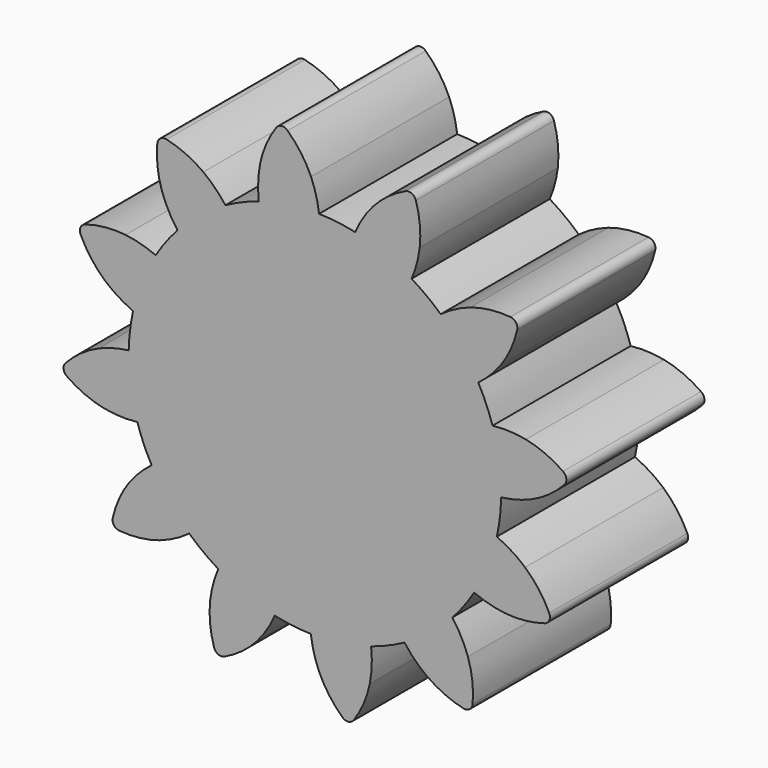
from build123d import *

# Parameters (mm, degrees)
F1_DEPTH = 25
F2_COUNT = 12


with BuildPart() as f1:
    # F0 (on Front) → F1 (new body)
    with BuildSketch(Plane.XZ):
        with BuildLine():
            ThreePointArc((-7.9477143302, 30.5472248468), (-8.2259408607, 28.1405650395), (-8.1327613443, 25.7196687162))
            ThreePointArc((-8.1327613443, 25.7196687162), (-3.8188440215, 26.7031757717), (0.5978189292, 26.9682364733))
            ThreePointArc((0.5978189292, 26.9682364733), (0.1710931502, 29.1900709912), (-0.5687537498, 31.3281238622))
            ThreePointArc((-0.5687537498, 31.3281238622), (-2.0216895742, 33.8802868431), (-3.9594054698, 36.087052689))
            ThreePointArc((-3.9594054698, 36.087052689), (-4.8361287947, 36.3983837804), (-5.6282667199, 35.9104408081))
            ThreePointArc((-5.6282667199, 35.9104408081), (-7.0611591635, 33.3469709651), (-7.9477143302, 30.5472248468))
        make_face()
        with BuildLine():
            ThreePointArc((0.5978189292, 26.9682364733), (-3.8188440215, 26.7031757717), (-8.1327613443, 25.7196687162))
            ThreePointArc((-8.1327613443, 25.7196687162), (-15.9415032716, -21.760322594), (26.9748617412, 0))
            ThreePointArc((26.9748617412, 0), (19.2843103184, 18.8615625412), (0.5978189292, 26.9682364733))
        make_face()
    extrude(amount=F1_DEPTH)

    # F2: F1 ×12 about axis
    f2_axis = Axis((0, 0, 0), (0, 1, 0))


with BuildPart() as f1_1:
    add(f1.part)
    for i in range(1, F2_COUNT):
        add(f1.part.rotate(f2_axis, i * 360 / F2_COUNT))


solid = f1_1.part
